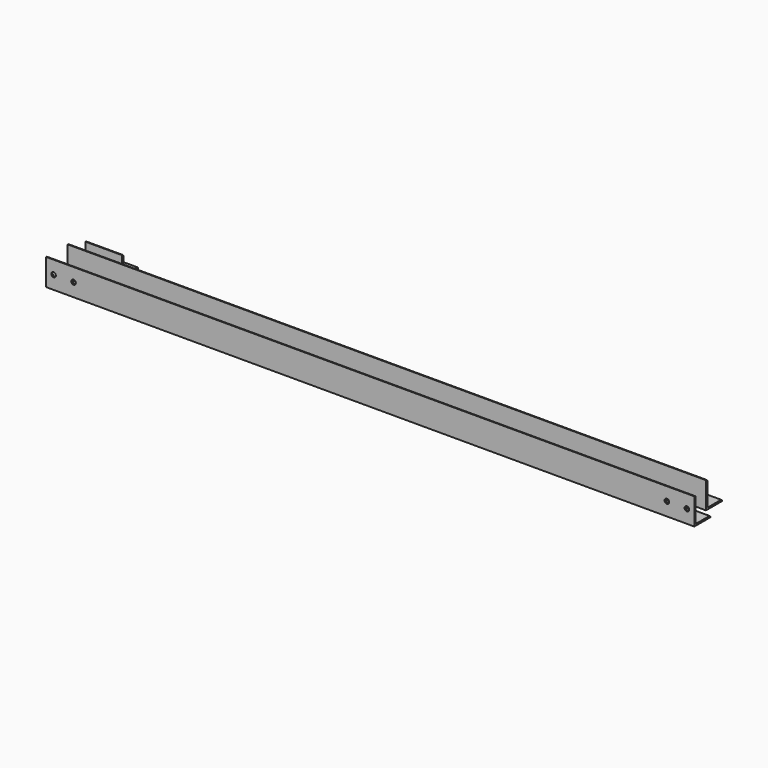
from build123d import *

# Parameters (mm, degrees)
F1_DEPTH  = 2438.4
F3_DEPTH  = 2476.5
F5_DEPTH  = 139.7
F6_R      = 5.08
F7_R      = 8.73125
F8_DEPTH  = 6.351
F9_R      = 8.73125
F10_DEPTH = 25.4


with BuildPart() as f1:
    # F0 (on Right) → F1 (new body)
    with BuildSketch(Plane.YZ):
        with BuildLine():
            Line((0, 101.6), (0, 0))
            Line((0, 0), (76.2, 0))
            Line((76.2, 0), (76.2, 1.27))
            ThreePointArc((76.2, 1.27), (74.712102, 4.862102), (71.12, 6.35))
            Line((71.12, 6.35), (12.7, 6.35))
            ThreePointArc((12.7, 6.35), (8.209872, 8.209872), (6.35, 12.7))
            Line((6.35, 12.7), (6.35, 96.52))
            ThreePointArc((6.35, 96.52), (4.862102, 100.112102), (1.27, 101.6))
            Line((1.27, 101.6), (0, 101.6))
        make_face()
    extrude(amount=F1_DEPTH)


with BuildPart() as f3:
    # F2 (on Right) → F3 (new body)
    with BuildSketch(Plane.YZ):
        with BuildLine():
            ThreePointArc((-90.516991, 6.35), (-95.007119, 8.209872), (-96.866991, 12.7))
            Line((-96.866991, 12.7), (-96.866991, 96.52))
            ThreePointArc((-96.866991, 96.52), (-98.354888, 100.112102), (-101.946991, 101.6))
            Line((-101.946991, 101.6), (-103.216991, 101.6))
            Line((-103.216991, 101.6), (-103.216991, 0))
            Line((-103.216991, 0), (-27.016991, 0))
            Line((-27.016991, 0), (-27.016991, 1.27))
            ThreePointArc((-27.016991, 1.27), (-28.504888, 4.862102), (-32.096991, 6.35))
            Line((-32.096991, 6.35), (-90.516991, 6.35))
        make_face()
    extrude(amount=F3_DEPTH)

    # F9 (on face) → F10 (cut)
    with BuildSketch(Plane.XZ.offset(103.216991)):
        with Locations((28.575, 50.8)):
            Circle(F9_R)
        with Locations((104.775, 50.8)):
            Circle(F9_R)
        with Locations((2447.925, 50.8)):
            Circle(F9_R)
        with Locations((2371.725, 50.8)):
            Circle(F9_R)
    extrude(amount=-F10_DEPTH, mode=Mode.SUBTRACT)


with BuildPart() as f5:
    # F4 (on Right) → F5 (new body)
    with BuildSketch(Plane.YZ):
        Polygon((91.322563, 76.2), (84.972563, 76.2), (84.972563, 0), (161.172563, 0), (161.172563, 6.35), (91.322563, 6.35), align=None)
    extrude(amount=F5_DEPTH)

    # F6
    f6_edges = [f5.edges().sort_by_distance(p)[0] for p in [
        (69.85, 91.322563, 76.2),
        (69.85, 161.172563, 6.35),
    ]]
    fillet(f6_edges, radius=F6_R)

    # F7 (on face) → F8 (cut, through all)
    with BuildSketch(Plane.XY.offset(6.35)):
        with Locations((31.75, 129.422563)):
            Circle(F7_R)
        with Locations((107.95, 129.422563)):
            Circle(F7_R)
    extrude(amount=-F8_DEPTH, mode=Mode.SUBTRACT)


solid = Compound([f1.part, f3.part, f5.part])
